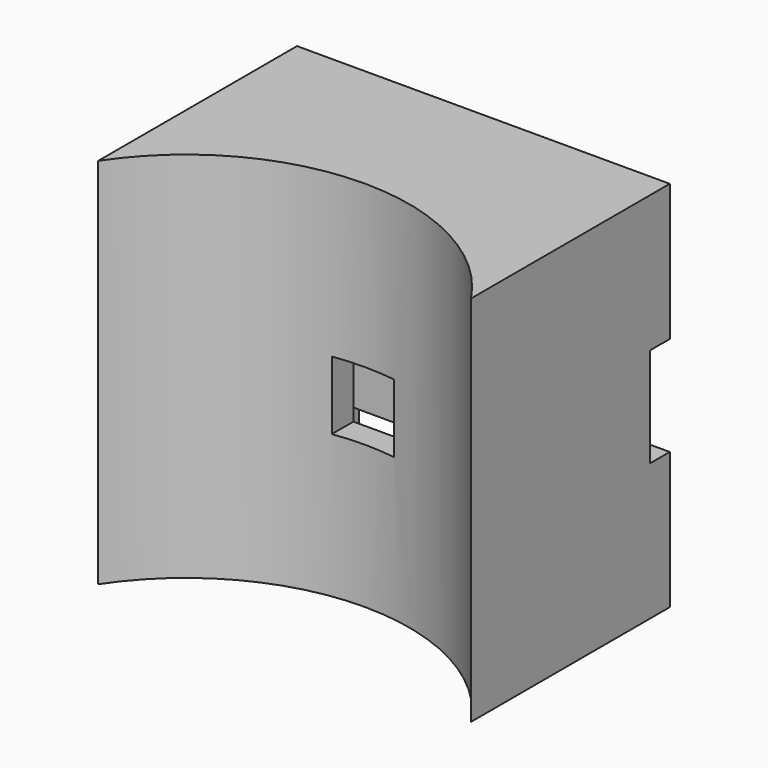
from build123d import *

# Parameters (mm, degrees)
F0_W      = 30
F0_H      = 30
F1_DEPTH  = 20
F3_DEPTH  = 30.001
F7_W      = 5
F7_H      = 4
F8_DEPTH  = 3
F10_DEPTH = 1.5
F11_W     = 20
F11_H     = 12.5
F12_DEPTH = 9.9508743711
F13_W     = 30
F13_H     = 8
F14_DEPTH = 2
F15_R     = 1.25
F16_DEPTH = 5


with BuildPart() as f1:
    # F0 (on Front) → F1 (new body)
    with BuildSketch(Plane.XZ):
        with Locations((15, 15)):
            Rectangle(F0_W, F0_H)
    extrude(amount=F1_DEPTH)

    # F2 (on face) → F3 (cut, through all)
    with BuildSketch(Plane.XY.offset(30)):
        with BuildLine():
            Line((0, -20), (30, -20))
            ThreePointArc((30, -20), (15, -11.9498743711), (0, -20))
        make_face()
    extrude(amount=-F3_DEPTH, mode=Mode.SUBTRACT)

    # F7 (on offset) → F8 (cut)
    with BuildSketch(Plane.XZ.offset(12.9498743711)):
        with Locations((15, 15)):
            Rectangle(F7_W, F7_H)
    extrude(amount=-F8_DEPTH, mode=Mode.SUBTRACT)

    # F9 (on face) → F10 (cut)
    with BuildSketch(Plane.XY.offset(13)):
        with BuildLine():
            ThreePointArc((12.5, -12.1243309011), (15, -11.9498743711), (17.5, -12.1243309011))
            Line((17.5, -12.1243309011), (17.5, -9.9498743711))
            Line((17.5, -9.9498743711), (12.5, -9.9498743711))
            Line((12.5, -9.9498743711), (12.5, -12.1243309011))
        make_face()
    extrude(amount=-F10_DEPTH, mode=Mode.SUBTRACT)

    # F11 (on face) → F12 (cut, through all)
    with BuildSketch(Plane.XZ.offset(9.9498743711)):
        with Locations((15, 6.25)):
            Rectangle(F11_W, F11_H)
    extrude(amount=-F12_DEPTH, mode=Mode.SUBTRACT)

    # F13 (on face) → F14 (cut)
    with BuildSketch(Plane.XZ):
        with Locations((15, 15)):
            Rectangle(F13_W, F13_H)
    extrude(amount=F14_DEPTH, mode=Mode.SUBTRACT)

    # F15 (on face) → F16 (cut)
    with BuildSketch(Plane(origin=(0, 0, 12.5), x_dir=(1, 0, 0), z_dir=(0, 0, -1))):
        with Locations((18, 6.9498743711)):
            Circle(F15_R)
        with Locations((12, 6.9498743711)):
            Circle(F15_R)
    extrude(amount=-F16_DEPTH, mode=Mode.SUBTRACT)


solid = f1.part
